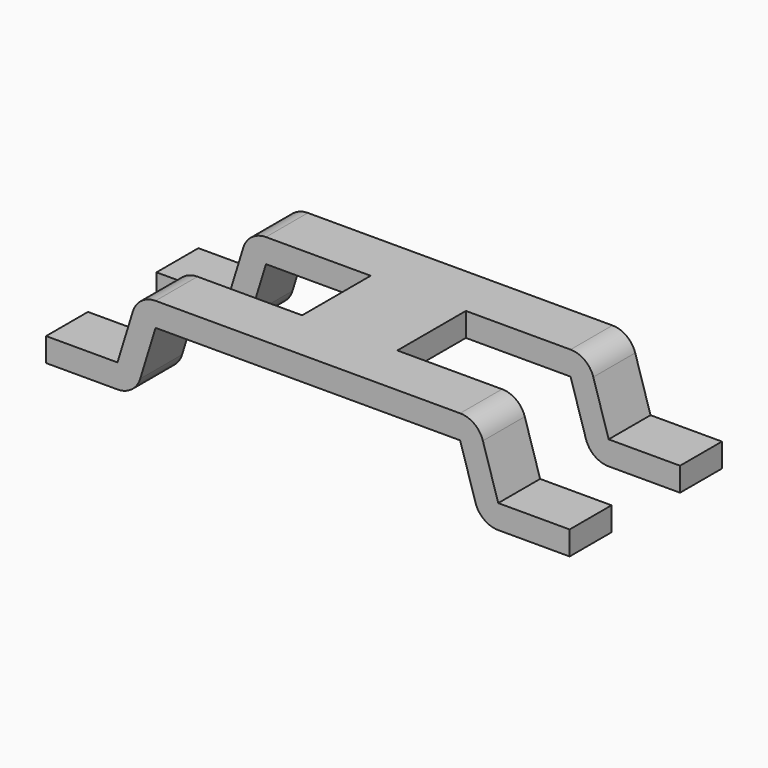
from build123d import *

# Parameters (mm, degrees)
PAD023_DEPTH         = 2
SKETCH116_W          = 5
SKETCH116_H          = 1.8
POCKET027_DEPTH      = 23.716818
POCKET027_DEPTH_BACK = 25.616818


with BuildPart() as part:
    # Sketch115 → Pad023 (new body, symmetric)
    with BuildSketch(Plane.XZ):
        with BuildLine():
            Line((0, 1.9), (3.2, 1.9))
            ThreePointArc((3.677897, 1.547019), (3.497061, 1.802188), (3.2, 1.9))
            Line((4, 0.5), (3.677897, 1.547019))
            Line((4, 0.5), (5.5, 0.5))
            Line((5.5, 0.5), (5.5, 0))
            Line((5.5, 0), (4, 0))
            ThreePointArc((3.522103, 0.352981), (3.702939, 0.097812), (4, 0))
            Line((3.2, 1.4), (3.522103, 0.352981))
            Line((3.2, 1.4), (0, 1.4))
            Line((0, 1.4), (0, 1.9))
        make_face()
    pad023 = extrude(amount=PAD023_DEPTH, both=True)

    # Mirrored: Pad023 across YZ
    add(pad023.mirror(Plane.YZ))

    # Sketch116 → Pocket027 (cut, two sides)
    with BuildSketch(Plane.XY) as pocket027_sk:
        with Locations((3.5, 0)):
            Rectangle(SKETCH116_W, SKETCH116_H)
    pocket027 = extrude(amount=-POCKET027_DEPTH, mode=Mode.SUBTRACT) + extrude(pocket027_sk.sketch, amount=POCKET027_DEPTH_BACK, mode=Mode.SUBTRACT)

    # Mirrored019: Pocket027 across YZ
    add(pocket027.mirror(Plane.YZ), mode=Mode.SUBTRACT)


with BuildPart() as part_1:
    # Body029 placement: moved
    add(part.part.moved(Location((0, -2.35, 0))))


solid = part_1.part
